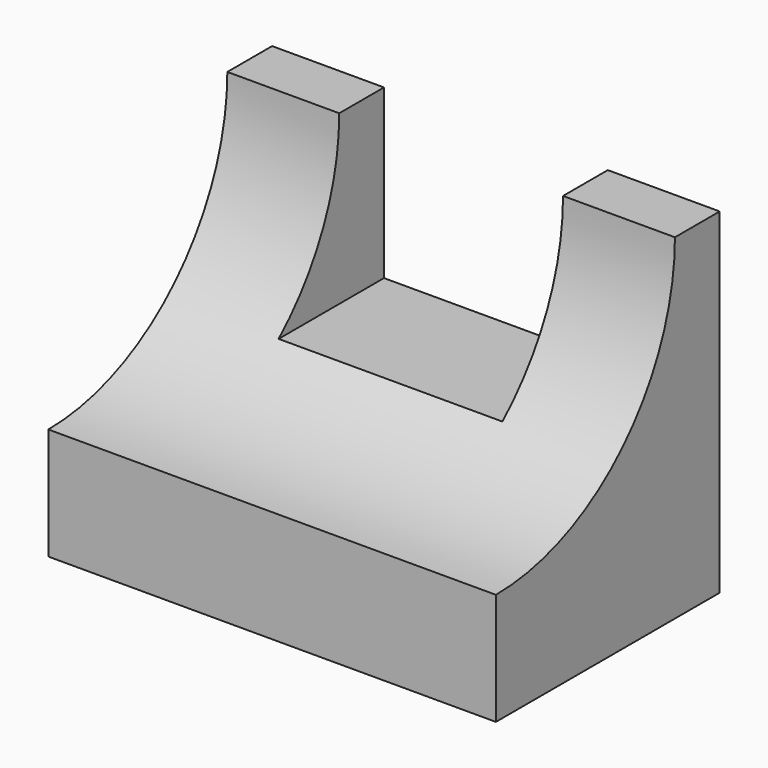
from build123d import *

# Parameters (mm, degrees)
F1_DEPTH = 50.8
F2_W     = 25.4
F2_H     = 19.05
F3_DEPTH = 25.4


with BuildPart() as f1:
    # F0 (on Right) → F1 (new body)
    with BuildSketch(Plane.YZ):
        with BuildLine():
            ThreePointArc((30.287941, 39.492725), (22.848454, 21.532213), (4.887941, 14.092725))
            Line((4.887941, 14.092725), (4.887941, 1.392725))
            Line((4.887941, 1.392725), (36.637941, 1.392725))
            Line((36.637941, 1.392725), (36.637941, 39.492725))
            Line((36.637941, 39.492725), (30.287941, 39.492725))
        make_face()
    extrude(amount=F1_DEPTH)

    # F2 (on face) → F3 (cut)
    with BuildSketch(Plane(origin=(0, 36.637941, 0), x_dir=(-1, 0, 0), z_dir=(0, 1, 0))):
        with Locations((-25.4, 29.967725)):
            Rectangle(F2_W, F2_H)
    extrude(amount=-F3_DEPTH, mode=Mode.SUBTRACT)


solid = f1.part
